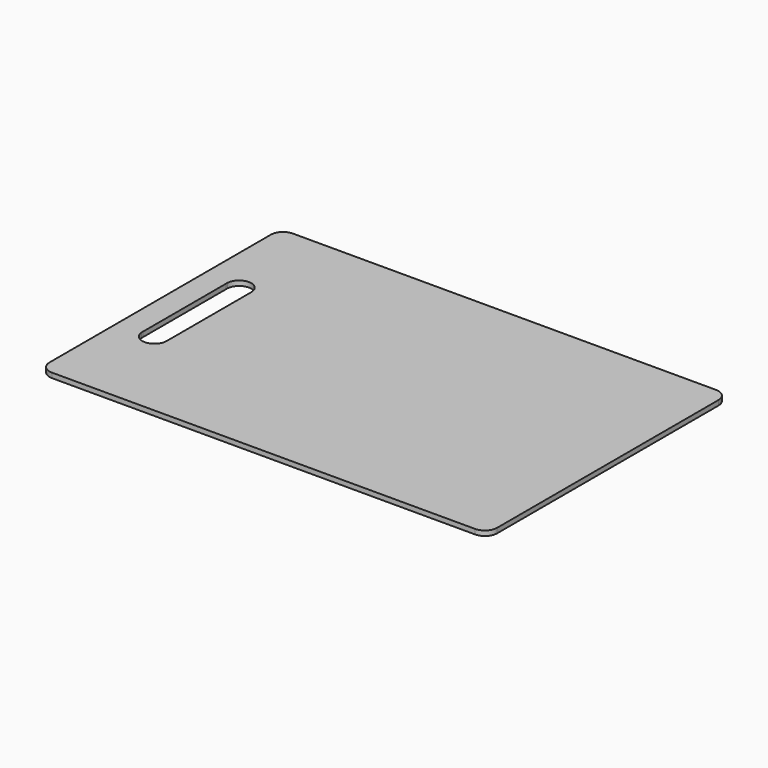
from build123d import *

# Parameters (mm, degrees)
F1_DEPTH = 6


with BuildPart() as f1:
    # F0 (on Top) → F1 (new body)
    with BuildSketch(Plane.XY):
        with BuildLine():
            ThreePointArc((275, 170), (270.606602, 180.606602), (260, 185))
            Line((260, 185), (-260, 185))
            ThreePointArc((-260, 185), (-270.606602, 180.606602), (-275, 170))
            Line((-275, 170), (-275, -170))
            ThreePointArc((-275, -170), (-270.606602, -180.606602), (-260, -185))
            Line((-260, -185), (260, -185))
            ThreePointArc((260, -185), (270.606602, -180.606602), (275, -170))
            Line((275, -170), (275, 170))
        make_face()
        with BuildLine():
            ThreePointArc((-215.015495, 65.681628), (-215, 65.001779), (-215.015334, 64.321926))
            Line((-215.015334, 64.321926), (-215, -64.998221))
            ThreePointArc((-215, -64.998221), (-229.443822, -79.989685), (-244.958887, -66.109818))
            ThreePointArc((-244.958887, -66.109818), (-245, -65), (-244.958887, -63.890182))
            Line((-244.958887, -63.890182), (-244.958887, 63.890182))
            ThreePointArc((-244.958887, 63.890182), (-245, 65), (-244.958887, 66.109818))
            ThreePointArc((-244.958887, 66.109818), (-229.785522, 79.998467), (-215.015495, 65.681628))
        make_face(mode=Mode.SUBTRACT)
    extrude(amount=F1_DEPTH)


solid = f1.part
